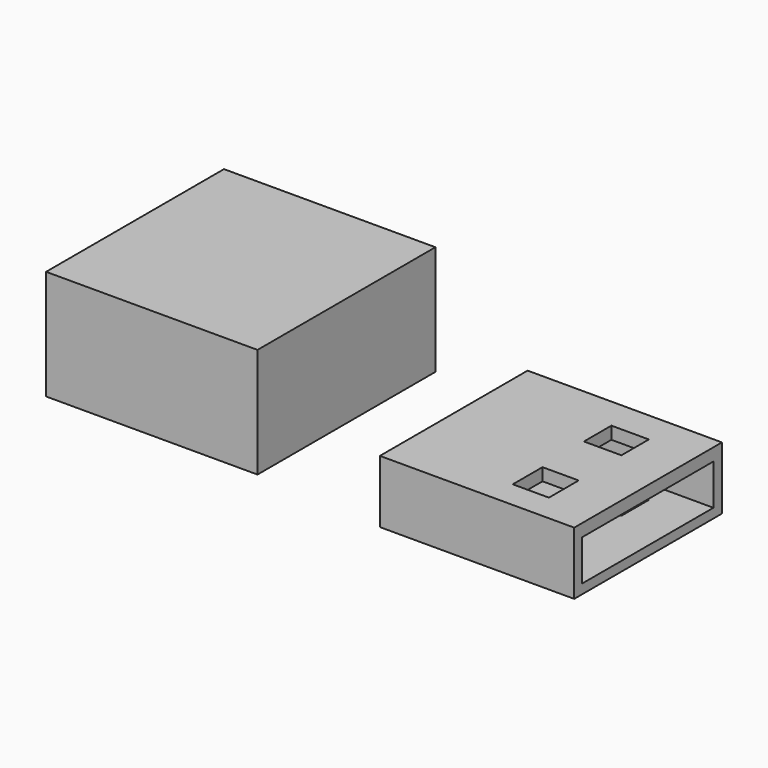
from build123d import *

# Parameters (mm, degrees)
F0_W     = 17.123912
F0_H     = 18.009631
F1_DEPTH = 8.89
F2_W     = 15.73784
F2_H     = 14.954054
F3_DEPTH = 5.08
F4_W     = 13.300197
F4_H     = 3.301468
F5_DEPTH = 12.7
F6_W     = 3.033554
F6_H     = 2.780758
F7_DEPTH = 25.4
F8_W     = 2.924021
F8_H     = 3.010021
F9_DEPTH = 25.4


with BuildPart() as f1:
    # F0 (on Top) → F1 (new body)
    with BuildSketch(Plane.XY):
        with Locations((-51.076496, 38.23356)):
            Rectangle(F0_W, F0_H)
    extrude(amount=F1_DEPTH)


with BuildPart() as f3:
    # F2 (on Top) → F3 (new body)
    with BuildSketch(Plane.XY):
        with Locations((-24.107112, 35.923231)):
            Rectangle(F2_W, F2_H)
    extrude(amount=F3_DEPTH)

    # F4 (on face) → F5 (cut)
    with BuildSketch(Plane.YZ.offset(-16.238192)):
        with Locations((35.889502, 2.418494)):
            Rectangle(F4_W, F4_H)
    extrude(amount=-F5_DEPTH, mode=Mode.SUBTRACT)

    # F6 (on face) → F7 (cut)
    with BuildSketch(Plane.XY.offset(5.08)):
        with Locations((-21.614076, 39.43621)):
            Rectangle(F6_W, F6_H)
    extrude(amount=-F7_DEPTH, mode=Mode.SUBTRACT)

    # F8 (on face) → F9 (cut)
    with BuildSketch(Plane.XY.offset(5.08)):
        with Locations((-21.517665, 32.15999)):
            Rectangle(F8_W, F8_H)
    extrude(amount=-F9_DEPTH, mode=Mode.SUBTRACT)


solid = Compound([f1.part, f3.part])
